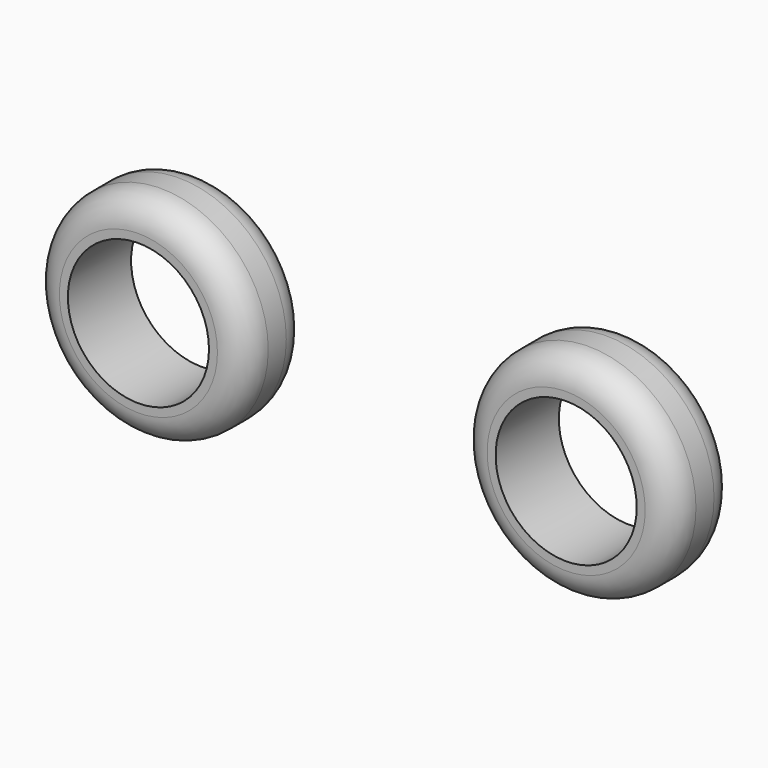
from build123d import *

# Parameters (mm, degrees)
F0_R     = 19
F0_R_2   = 12.5
F1_DEPTH = 14
F2_R     = 5


with BuildPart() as f1:
    # F0 (on Front) → F1 (new body)
    with BuildSketch(Plane.XZ):
        with Locations((-38.782895, 36.414474)):
            Circle(F0_R)
        with Locations((-38.782895, 36.414474)):
            Circle(F0_R_2, mode=Mode.SUBTRACT)
        with Locations((37.006583, 36.414474)):
            Circle(F0_R)
        with Locations((37.006583, 36.414474)):
            Circle(F0_R_2, mode=Mode.SUBTRACT)
    extrude(amount=F1_DEPTH)

    # F2
    f2_edges = [f1.edges().sort_by_distance(p)[0] for p in [
        (-19.782895, -7, 36.414474),
        (-57.782895, 0, 36.414474),
        (-57.782895, -14, 36.414474),
        (56.006583, -7, 36.414474),
        (18.006583, 0, 36.414474),
        (18.006583, -14, 36.414474),
    ]]
    fillet(f2_edges, radius=F2_R)


solid = f1.part
